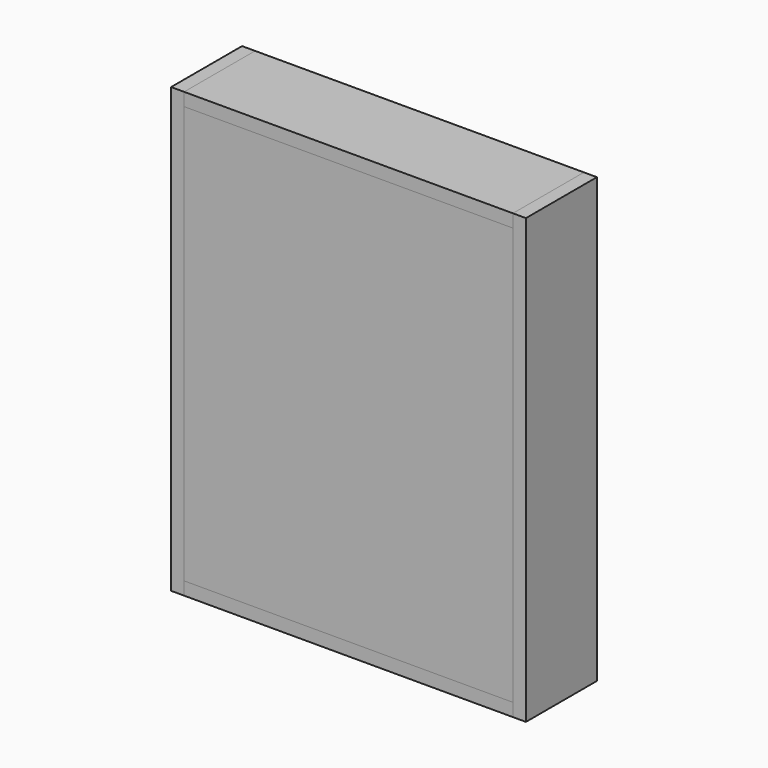
from build123d import *

# Parameters (mm, degrees)
F1_DEPTH = 150
F2_DEPTH = 150
F0_W     = 556
F0_H     = 22
F3_DEPTH = 150
F4_DEPTH = 150
F0_H_2   = 706
F5_DEPTH = 25
F6_R     = 7.5
F7_DEPTH = 40


with BuildPart() as f1:
    # F0 (on Front) → F1 (new body)
    with BuildSketch(Plane.XZ):
        Polygon((-405.600094, 753.709539), (-427.600094, 753.709539), (-427.600094, 3.709539), (-405.600094, 3.709539), (-405.600094, 25.709539), (-405.600094, 731.709539), align=None)
    extrude(amount=-F1_DEPTH)


with BuildPart() as f2:
    # F0 (on Front) → F2 (new body)
    with BuildSketch(Plane.XZ):
        Polygon((172.399906, 753.709539), (150.399906, 753.709539), (150.399906, 731.709539), (150.399906, 25.709539), (150.399906, 3.709539), (172.399906, 3.709539), align=None)
    extrude(amount=-F2_DEPTH)


with BuildPart() as f3:
    # F0 (on Front) → F3 (new body)
    with BuildSketch(Plane.XZ):
        with Locations((-127.600094, 742.709539)):
            Rectangle(F0_W, F0_H)
    extrude(amount=-F3_DEPTH)


with BuildPart() as f4:
    # F0 (on Front) → F4 (new body)
    with BuildSketch(Plane.XZ):
        with Locations((-127.600094, 14.709539)):
            Rectangle(F0_W, F0_H)
    extrude(amount=-F4_DEPTH)


with BuildPart() as f5:
    # F0 (on Front) → F5 (new body)
    with BuildSketch(Plane.XZ):
        with Locations((-127.600094, 378.709539)):
            Rectangle(F0_W, F0_H_2)
    extrude(amount=-F5_DEPTH)


with BuildPart() as f7:
    # F6 (on face) → F7 (new body)
    with BuildSketch(Plane.YZ.offset(150.399906)):
        with BuildLine():
            Line((45, 721.709539), (25, 721.709539))
            Line((25, 721.709539), (25, 661.709539))
            Line((25, 661.709539), (45, 661.709539))
            ThreePointArc((45, 661.709539), (52.071068, 664.638471), (55, 671.709539))
            Line((55, 671.709539), (55, 711.709539))
            ThreePointArc((55, 711.709539), (52.071068, 718.780607), (45, 721.709539))
        make_face()
        with Locations((40, 691.709539)):
            Circle(F6_R, mode=Mode.SUBTRACT)
    extrude(amount=-F7_DEPTH)


solid = Compound([f1.part, f2.part, f3.part, f4.part, f5.part, f7.part])
